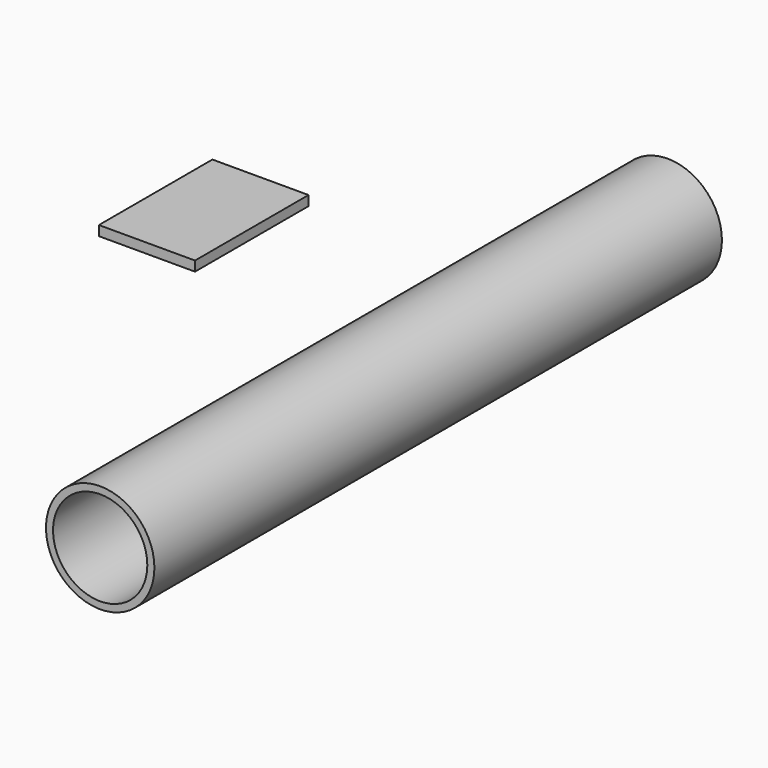
from build123d import *

# Parameters (mm, degrees)
F0_R     = 19.40875
F0_R_2   = 16.876351
F1_DEPTH = 127
F0_W     = 34.408923
F0_H     = 3.514886
F2_DEPTH = 50.8


with BuildPart() as f1:
    # F0 (on Front) → F1 (new body, symmetric)
    with BuildSketch(Plane.XZ):
        Circle(F0_R)
        Circle(F0_R_2, mode=Mode.SUBTRACT)
    extrude(amount=F1_DEPTH, both=True)


with BuildPart() as f2:
    # F0 (on Front) → F2 (new body)
    with BuildSketch(Plane.XZ):
        with Locations((-44.213617, 49.023468)):
            Rectangle(F0_W, F0_H)
    extrude(amount=F2_DEPTH)


solid = Compound([f1.part, f2.part])
